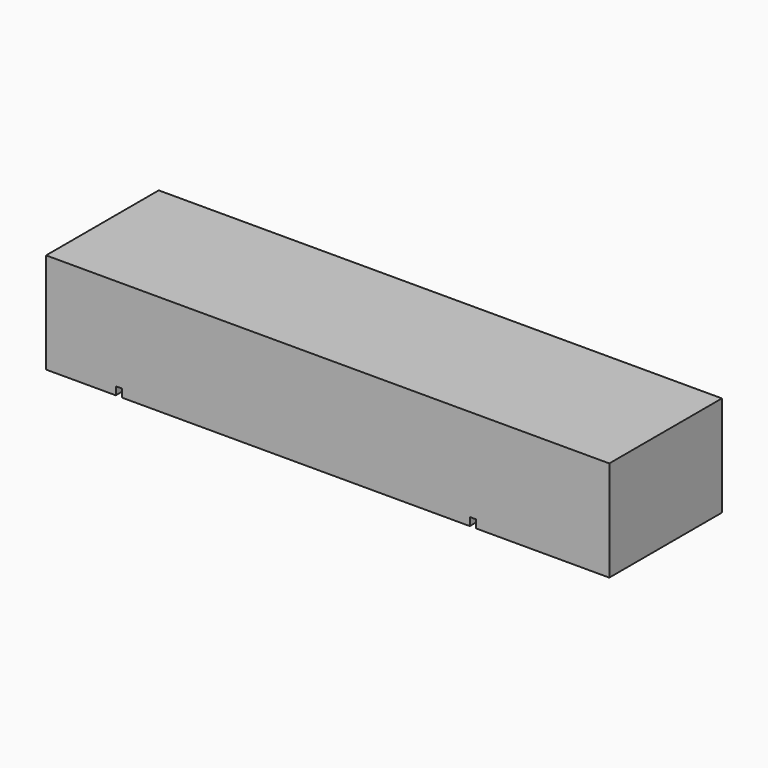
from build123d import *

# Parameters (mm, degrees)
F0_W     = 177.8
F0_H     = 44.45
F1_DEPTH = 31.75
F2_W     = 2.032
F2_H     = 5.08
F2_H_2   = 2.957622528
F3_DEPTH = 70.866


with BuildPart() as f1:
    # F0 (on Top) → F1 (new body)
    with BuildSketch(Plane.XY):
        Rectangle(F0_W, F0_H)
    extrude(amount=F1_DEPTH)

    # F2 (on Front) → F3 (cut, symmetric)
    with BuildSketch(Plane.XZ):
        with Locations((-65.8876, 0)):
            Rectangle(F2_W, F2_H)
        with Locations((45.8724, 1.061188736)):
            Rectangle(F2_W, F2_H_2)
    extrude(amount=F3_DEPTH, both=True, mode=Mode.SUBTRACT)


solid = f1.part
